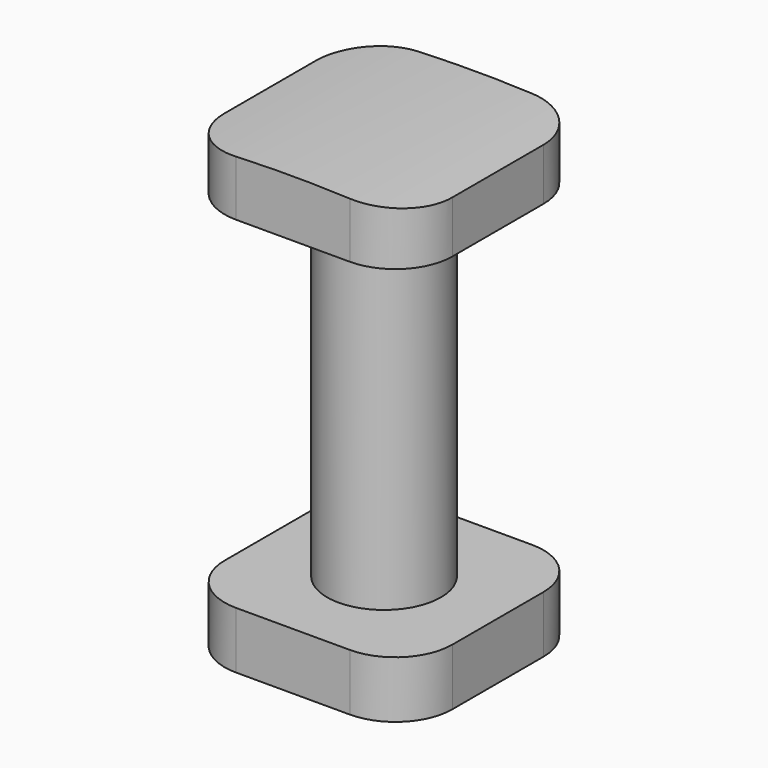
from build123d import *

# Parameters (mm, degrees)
F1_DEPTH = 25.4
F4_DEPTH = 25.4
F5_R     = 50.8
F6_DEPTH = 25.4
F7_W     = 11.8262093864
F7_H     = 19.0586867377


with BuildPart() as f1:
    # F0 (on Top) → F1 (new body)
    with BuildSketch(Plane.XY):
        with BuildLine():
            ThreePointArc((6.35, 3.175), (5.4200640303, 5.4200640303), (3.175, 6.35))
            Line((3.175, 6.35), (-3.175, 6.35))
            ThreePointArc((-3.175, 6.35), (-5.4200640303, 5.4200640303), (-6.35, 3.175))
            Line((-6.35, 3.175), (-6.35, -3.175))
            ThreePointArc((-6.35, -3.175), (-5.4200640303, -5.4200640303), (-3.175, -6.35))
            Line((-3.175, -6.35), (3.175, -6.35))
            ThreePointArc((3.175, -6.35), (5.4200640303, -5.4200640303), (6.35, -3.175))
            Line((6.35, -3.175), (6.35, 3.175))
        make_face()
    extrude(amount=F1_DEPTH)

    # F3 (on offset) → F4 (cut)
    with BuildSketch(Plane.XZ.offset(6.35)):
        with BuildLine():
            ThreePointArc((-43.2637086009, 11.9271194787), (1.858689826, 25.3773278091), (46.2714276243, 9.7425056106))
            Line((46.2714276243, 9.7425056106), (46.1867414415, 53.5595417023))
            Line((46.1867414415, 53.5595417023), (-43.2637086009, 53.5595417023))
            Line((-43.2637086009, 53.5595417023), (-43.2637086009, 11.9271194787))
        make_face()
    extrude(amount=-F4_DEPTH, mode=Mode.SUBTRACT)

    # F5 (on offset) → F6 (cut)
    with BuildSketch(Plane.XZ.offset(6.35)):
        with Locations((0, -50.8)):
            Circle(F5_R)
    extrude(amount=-F6_DEPTH, mode=Mode.SUBTRACT)

    # F7 (on Front) → F8 (revolve, cut)
    with BuildSketch(Plane.XZ):
        with Locations((9.0881046932, 12.7043433689)):
            Rectangle(F7_W, F7_H)
    revolve(axis=Axis((0, 0, 19.7457969189), (0, 0, -1)), mode=Mode.SUBTRACT)


solid = f1.part
